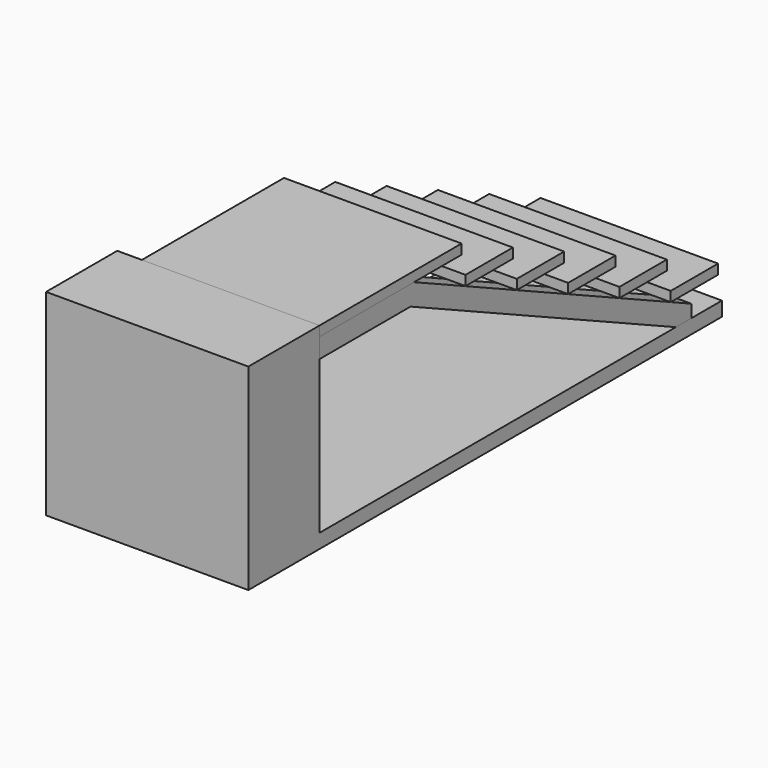
from build123d import *

# Parameters (mm, degrees)
F0_W     = 457.962586
F0_H     = 939.8
F1_DEPTH = 1041.4
F2_W     = 914.4
F2_H     = 50.8
F2_W_2   = 304.8
F3_DEPTH = 914.4
F5_DEPTH = 101.6


with BuildPart() as f1:
    # F0 (on Right) → F1 (new body)
    with BuildSketch(Plane.YZ):
        with Locations((-228.981293, 469.9)):
            Rectangle(F0_W, F0_H)
        Polygon((2590.037414, 0), (0, 0), (-457.962586, 0), (-457.962586, -73.327616), (2590.037414, -73.327616), align=None)
    extrude(amount=F1_DEPTH)


with BuildPart() as f3:
    # F2 (on face) → F3 (new body)
    with BuildSketch(Plane.YZ.offset(1041.4)):
        with Locations((457.2, 914.4)):
            Rectangle(F2_W, F2_H)
        with Locations((1092.2, 762)):
            Rectangle(F2_W_2, F2_H)
        with Locations((1422.4, 609.6)):
            Rectangle(F2_W_2, F2_H)
        with Locations((1752.6, 457.2)):
            Rectangle(F2_W_2, F2_H)
        with Locations((2082.8, 304.8)):
            Rectangle(F2_W_2, F2_H)
        with Locations((2413, 152.4)):
            Rectangle(F2_W_2, F2_H)
    extrude(amount=-F3_DEPTH)


with BuildPart() as f5:
    # F4 (on face) → F5 (new body)
    with BuildSketch(Plane.YZ.offset(1041.4)):
        Polygon((2392.585126, 66.13153), (608.305036, 889), (586.005814, 787.4), (2293.377277, 0), (2394.977277, 0), align=None)
        Polygon((586.005814, 787.4), (608.305036, 889), (0, 889), (0, 787.4), align=None)
    extrude(amount=-F5_DEPTH)


solid = Compound([f1.part, f3.part, f5.part])
